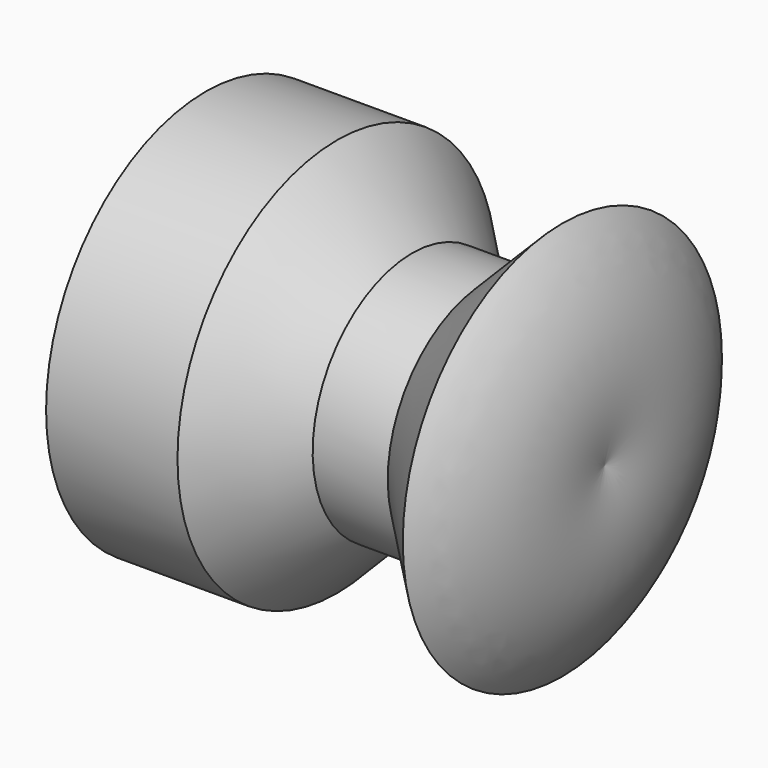
from build123d import *


with BuildPart() as f1:
    # F0 (on Front) → F1 (revolve)
    with BuildSketch(Plane.XZ):
        with BuildLine():
            Line((-12.7, 0), (0, 0))
            ThreePointArc((0, 0), (0.087671, 3.335946), (-1.344705, 6.35))
            Line((-1.344705, 6.35), (-3.735293, 3.959412))
            Line((-3.735293, 3.959412), (-6.125882, 3.959412))
            Line((-6.125882, 3.959412), (-8.51647, 6.35))
            Line((-8.51647, 6.35), (-12.7, 6.35))
            Line((-12.7, 6.35), (-12.7, 0))
        make_face()
    revolve(axis=Axis((-6.35, 0, 0), (-1, 0, 0)))


solid = f1.part
